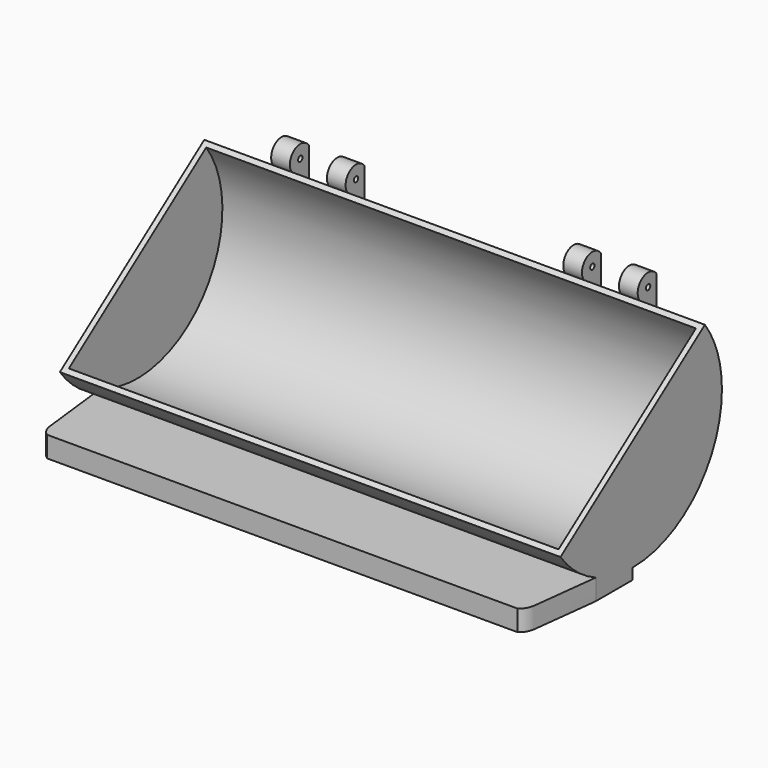
from build123d import *

# Parameters (mm, degrees)
F1_DEPTH  = 292.1
F2_W      = 285.75
F2_H      = 61.9125
F5_DEPTH  = 215.9
F8_DEPTH  = 292.1
F10_DEPTH = 25.4
F11_DEPTH = 25.4
F12_R     = 1.5875
F13_DEPTH = 10.922


with BuildPart() as f1:
    # F0 (on Right) → F1 (new body)
    with BuildSketch(Plane.YZ):
        with BuildLine():
            ThreePointArc((-52.6568936214, -38.2574726086), (20.1131436214, -61.9018910044), (65.0875, 0))
            ThreePointArc((65.0875, 0), (61.9018910044, 20.1131436214), (52.6568936214, 38.2574726086))
            Line((52.6568936214, 38.2574726086), (-52.6568936214, -38.2574726086))
        make_face()
    extrude(amount=F1_DEPTH)

    # F2 (on face) → F3 (revolve, cut)
    with BuildSketch(Plane(origin=(0, 0, 0), x_dir=(1, 0, 0), z_dir=(0, -0.5877852523, 0.8090169944))):
        with Locations((146.05, -30.95625)):
            Rectangle(F2_W, F2_H)
    revolve(axis=Axis((146.05, 0, 0), (1, 0, 0)), mode=Mode.SUBTRACT)

    # F7 (on face) → F8 (join)
    with BuildSketch(Plane.YZ.offset(292.1)):
        with BuildLine():
            Line((-73.025, -71.4375), (0, -71.4375))
            Line((0, -71.4375), (0, -65.0875))
            ThreePointArc((0, -65.0875), (-13.7283416697, -63.6232291797), (-26.8389914594, -59.2963))
            Line((-26.8389914594, -59.2963), (-73.025, -59.2963))
            Line((-73.025, -59.2963), (-73.025, -71.4375))
        make_face()
    extrude(amount=-F8_DEPTH)

    # F9 (on face) → F10 (cut)
    with BuildSketch(Plane.XY.offset(-59.2963)):
        with BuildLine():
            Line((0, -26.8389914594), (0, -73.025))
            Line((0, -73.025), (8.89, -73.025))
            add(Edge.make_bspline(
                [(0, -26.8389914594), (0.6125366576, -31.7551776854), (1.5167202189, -42.188337885), (4.2529502593, -59.2980696037), (4.4525517151, -70.2820941806), (8.89, -73.025)],
                knots=[0, 0, 0, 0, 0.3290774358, 0.6845624908, 1, 1, 1, 1], degree=3))
        make_face()
    extrude(amount=-F10_DEPTH, mode=Mode.SUBTRACT)

    # F9 (on face) → F11 (cut)
    with BuildSketch(Plane.XY.offset(-59.2963)):
        with BuildLine():
            Line((292.1, -73.025), (292.1, -26.8389914594))
            add(Edge.make_bspline(
                [(292.1, -26.8389914594), (291.4874633424, -31.7551776854), (290.5832797811, -42.188337885), (287.8470497407, -59.2980696037), (287.6474482849, -70.2820941806), (283.21, -73.025)],
                knots=[0, 0, 0, 0, 0.3290774358, 0.6845624908, 1, 1, 1, 1], degree=3))
            Line((283.21, -73.025), (292.1, -73.025))
        make_face()
    extrude(amount=-F11_DEPTH, mode=Mode.SUBTRACT)


with BuildPart() as f5:
    # F4 (on face) → F5 (new body)
    with BuildSketch(Plane.YZ.offset(292.1)):
        with BuildLine():
            Line((0, -65.0875), (0.4475947963, -71.9790472637))
            Line((0.4475947963, -71.9790472637), (73.4725947963, -71.9790472637))
            Line((73.4725947963, -71.9790472637), (49.2000097, -42.6115207634))
            ThreePointArc((49.2000097, -42.6115207634), (27.0453812929, -59.2024493325), (0, -65.0875))
        make_face()
    extrude(amount=-F5_DEPTH)


with BuildPart() as f5_1:
    # F6: moved
    add(f5.part.moved(Location((-38.1, 0, 0))))


with BuildPart() as f13:
    # F12 (on face) → F13 (new body)
    with BuildSketch(Plane.YZ.offset(292.1)):
        with BuildLine():
            ThreePointArc((52.7838584268, 38.0821079489), (61.9352566863, 20.0101633039), (65.0875, 0))
            Line((65.0875, 0), (65.0875, 46.99))
            ThreePointArc((65.0875, 46.99), (54.505933115, 48.8390394936), (52.6568936214, 38.2574726086))
            ThreePointArc((52.6568936214, 38.2574726086), (52.7204489388, 38.1698430694), (52.7838584268, 38.0821079489))
        make_face()
        with Locations((58.8721968107, 42.6237363043)):
            Circle(F12_R, mode=Mode.SUBTRACT)
        with BuildLine():
            ThreePointArc((52.6568936214, 38.2574726086), (52.7197511846, 38.1693378922), (52.7838584268, 38.0821079489))
            ThreePointArc((52.7838584268, 38.0821079489), (52.7204489388, 38.1698430694), (52.6568936214, 38.2574726086))
        make_face()
    extrude(amount=-F13_DEPTH)


with BuildPart() as f13_1:
    # F14: moved
    add(f13.part.moved(Location((-38.1, 0, 0))))


with BuildPart() as f15_1:
    # F15: copy of F13
    add(f13_1.part.moved(Location((-32.512, 0, 0))))


with BuildPart() as f16_1:
    # F16: copy of F15_1
    add(f15_1.part.moved(Location((-137.922, 0, 0))))


with BuildPart() as f17_1:
    # F17: copy of F16_1
    add(f16_1.part.moved(Location((-32.512, 0, 0))))


solid = Compound([f1.part, f5_1.part, f13_1.part, f15_1.part, f16_1.part, f17_1.part])
